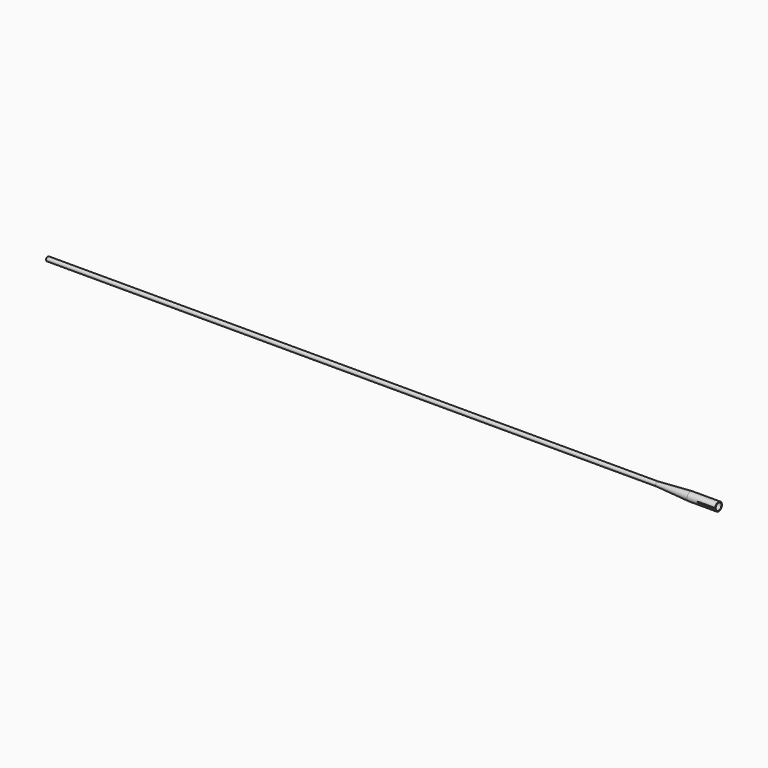
from build123d import *

# Parameters (mm, degrees)
F0_W     = 16
F0_H     = 2.4
F0_W_2   = 348
F0_H_2   = 1.2
F2_R     = 2
F3_DEPTH = 15
F4_W     = 10
F4_H     = 0.5
F5_DEPTH = 10
F6_R     = 0.775
F7_DEPTH = 340


with BuildPart() as f1:
    # F0 (on Front) → F1 (revolve)
    with BuildSketch(Plane.XZ):
        with Locations((18.878411, 1.2)):
            Rectangle(F0_W, F0_H)
        Polygon((-8.121589, 0), (10.878411, 0), (10.878411, 2.4), (-8.121589, 1.2), align=None)
        with Locations((-182.121589, 0.6)):
            Rectangle(F0_W_2, F0_H_2)
    revolve(axis=Axis((11.143533, 0, 0), (1, 0, 0)))

    # F2 (on face) → F3 (cut)
    with BuildSketch(Plane.YZ.offset(26.878411)):
        Circle(F2_R)
    extrude(amount=-F3_DEPTH, mode=Mode.SUBTRACT)

    # F4 (on Front) → F5 (cut)
    with BuildSketch(Plane.XZ):
        with Locations((21.878411, 0)):
            Rectangle(F4_W, F4_H)
    extrude(amount=F5_DEPTH, mode=Mode.SUBTRACT)

    # F6 (on face) → F7 (cut)
    with BuildSketch(Plane(origin=(-356.121589, 0, 0), x_dir=(0, -1, 0), z_dir=(-1, 0, 0))):
        Circle(F6_R)
    extrude(amount=-F7_DEPTH, mode=Mode.SUBTRACT)


solid = f1.part
